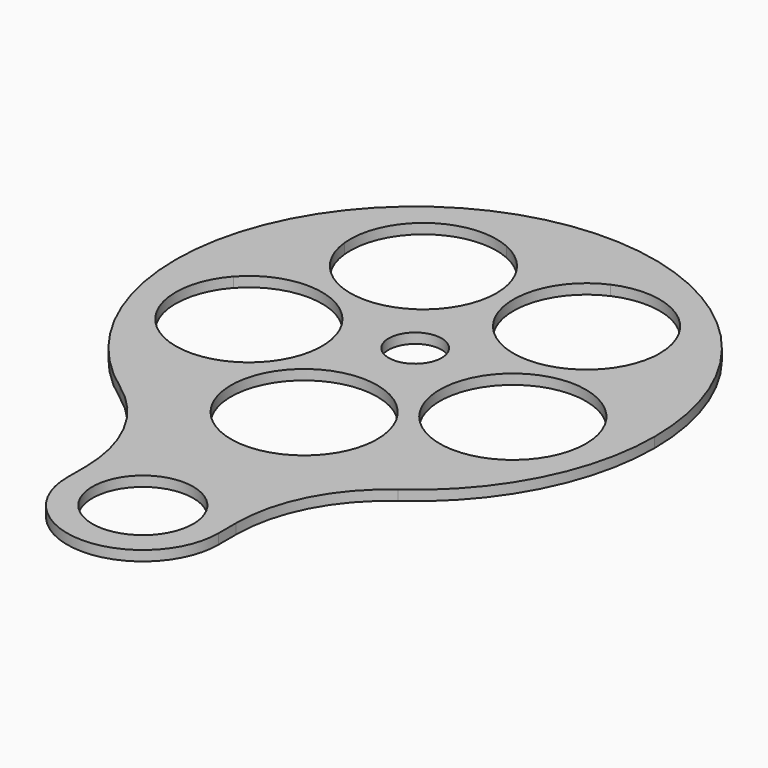
from build123d import *

# Parameters (mm, degrees)
F0_R     = 5.25
F1_DEPTH = 2
F2_R     = 30


with BuildPart() as f1:
    # F0 (on Top) → F1 (new body)
    with BuildSketch(Plane.XY):
        with BuildLine():
            ThreePointArc((15, -45.0693909433), (38.5275875186, -27.7826384636), (47.5, 0))
            ThreePointArc((47.5, 0), (-27.7826384636, 38.5275875186), (-15, -45.0693909433))
            Line((-15, -45.0693909433), (15, -45.0693909433))
        make_face()
        with BuildLine():
            ThreePointArc((30.6015129779, 20.7977740026), (35.1890911029, 11.4336287919), (36.981768892, 1.1613654129))
            ThreePointArc((36.981768892, 1.1613654129), (39.7188506232, -3.3309502538), (40.6730753284, -8.5041476852))
            ThreePointArc((40.6730753284, -8.5041476852), (37.4572672692, -17.6100255805), (29.2362460534, -22.6769027141))
            ThreePointArc((29.2362460534, -22.6769027141), (21.7480543348, -29.9336287919), (12.5325192134, -34.8128706395))
            ThreePointArc((12.5325192134, -34.8128706395), (0, -42.02), (-12.5325192134, -34.8128706395))
            ThreePointArc((-12.5325192134, -34.8128706395), (-21.7480543348, -29.9336287919), (-29.2362460534, -22.6769027141))
            ThreePointArc((-29.2362460534, -22.6769027141), (-39.9633948147, -12.9848941036), (-36.981768892, 1.1613654129))
            ThreePointArc((-36.981768892, 1.1613654129), (-35.1890911029, 11.4336287919), (-30.6015129779, 20.7977740026))
            ThreePointArc((-30.6015129779, 20.7977740026), (-24.6987363013, 33.9948941036), (-10.3234709259, 35.5306339381))
            ThreePointArc((-10.3234709259, 35.5306339381), (0, 37), (10.3234709259, 35.5306339381))
            ThreePointArc((10.3234709259, 35.5306339381), (24.0938834011, 34.4113592716), (30.6758501431, 22.2641476852))
            ThreePointArc((30.6758501431, 22.2641476852), (30.657253927, 21.530019326), (30.6015129779, 20.7977740026))
        make_face(mode=Mode.SUBTRACT)
        with BuildLine():
            ThreePointArc((29.2362460534, -22.6769027141), (12.3827558422, -4.0234012668), (36.981768892, 1.1613654129))
            ThreePointArc((36.981768892, 1.1613654129), (35.1890911029, 11.4336287919), (30.6015129779, 20.7977740026))
            ThreePointArc((30.6015129779, 20.7977740026), (7.6529639848, 10.5334012668), (10.3234709259, 35.5306339381))
            ThreePointArc((10.3234709259, 35.5306339381), (0, 37), (-10.3234709259, 35.5306339381))
            ThreePointArc((-10.3234709259, 35.5306339381), (-4.0286385567, 30.1821809432), (-1.6758501431, 22.2641476852))
            ThreePointArc((-1.6758501431, 22.2641476852), (-15.4417217839, 7.7827439013), (-30.6015129779, 20.7977740026))
            ThreePointArc((-30.6015129779, 20.7977740026), (-35.1890911029, 11.4336287919), (-36.981768892, 1.1613654129))
            ThreePointArc((-36.981768892, 1.1613654129), (-20.999877897, 5.0416276095), (-11.6730753284, -8.5041476852))
            ThreePointArc((-11.6730753284, -8.5041476852), (-17.0671974331, -19.788339626), (-29.2362460534, -22.6769027141))
            ThreePointArc((-29.2362460534, -22.6769027141), (-21.7480543348, -29.9336287919), (-12.5325192134, -34.8128706395))
            ThreePointArc((-12.5325192134, -34.8128706395), (-3.7768023118, -13.5205084272), (14.5, -27.52))
            ThreePointArc((14.5, -27.52), (13.9994915728, -31.2968023118), (12.5325192134, -34.8128706395))
            ThreePointArc((12.5325192134, -34.8128706395), (21.7480543348, -29.9336287919), (29.2362460534, -22.6769027141))
        make_face()
        Circle(F0_R, mode=Mode.SUBTRACT)
        with BuildLine():
            ThreePointArc((15, -45.0693909433), (0, -47.5), (-15, -45.0693909433))
            Line((-15, -45.0693909433), (-15, -67.5))
            ThreePointArc((-15, -67.5), (0, -52.5), (15, -67.5))
            Line((15, -67.5), (15, -45.0693909433))
        make_face()
        with BuildLine():
            Line((-10, -67.5), (-15, -67.5))
            ThreePointArc((-15, -67.5), (0, -82.5), (15, -67.5))
            Line((15, -67.5), (10, -67.5))
            ThreePointArc((10, -67.5), (0, -77.5), (-10, -67.5))
        make_face()
        with BuildLine():
            ThreePointArc((15, -67.5), (0, -52.5), (-15, -67.5))
            Line((-15, -67.5), (-10, -67.5))
            ThreePointArc((-10, -67.5), (0, -57.5), (10, -67.5))
            Line((10, -67.5), (15, -67.5))
        make_face()
        with BuildLine():
            Line((15, -45.0693909433), (-15, -45.0693909433))
            ThreePointArc((-15, -45.0693909433), (0, -47.5), (15, -45.0693909433))
        make_face()
    extrude(amount=F1_DEPTH)

    # F2
    f2_edges = [f1.edges().sort_by_distance(p)[0] for p in [
        (15, -45.069391, 1),
        (-15, -45.069391, 1),
    ]]
    fillet(f2_edges, radius=F2_R)


solid = f1.part
